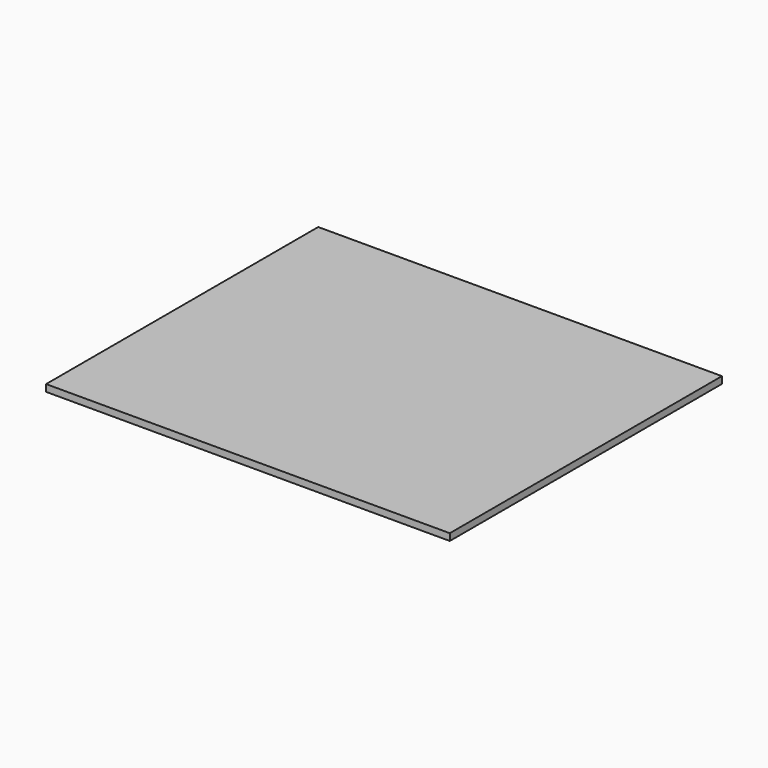
from build123d import *

# Parameters (mm, degrees)
SKETCH_W  = 587.5
SKETCH_H  = 495
PAD_DEPTH = 10


with BuildPart() as part:
    # Sketch → Pad (new body)
    with BuildSketch(Plane.XY):
        with Locations((3450.57915, -221.220251)):
            Rectangle(SKETCH_W, SKETCH_H)
    extrude(amount=PAD_DEPTH)


solid = part.part
